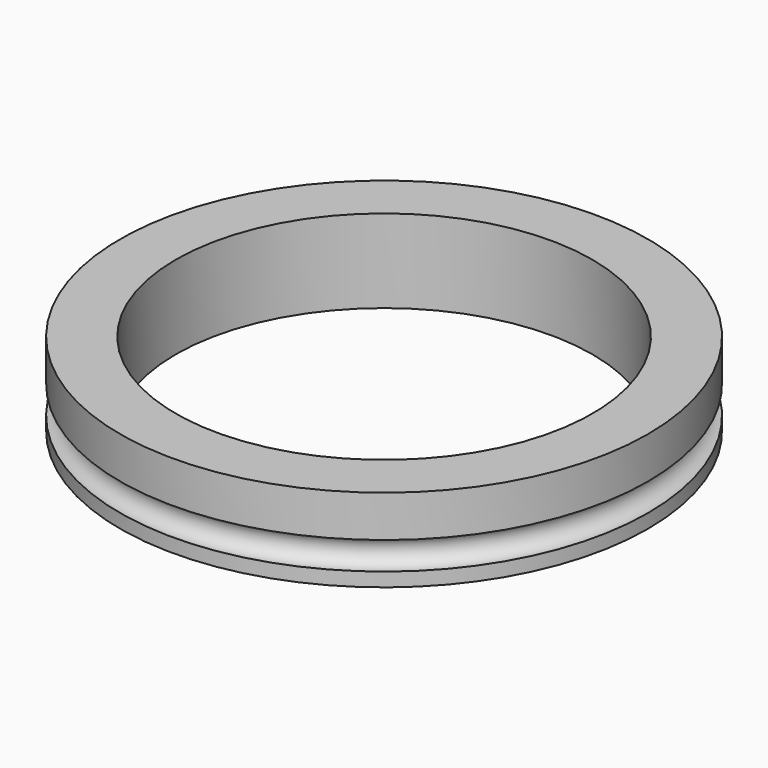
from build123d import *

# Parameters (mm, degrees)
F0_R     = 9.5
F1_DEPTH = 3
F2_R     = 0.5
F7_D     = 15


with BuildPart() as f1:
    # F0 (on Top) → F1 (new body)
    with BuildSketch(Plane.XY):
        Circle(F0_R)
    extrude(amount=F1_DEPTH)

    # F5: sweep along a path in F4
    with BuildLine(Plane.XY.offset(1)) as f5_path:
        CenterArc((0, 0), 9.5, 0, 360)
    # F2 (on Front) → F5 (sweep, cut)
    with BuildSketch(Plane.XZ):
        with Locations((9.5, 1)):
            Circle(F2_R)
    sweep(path=f5_path.line, mode=Mode.SUBTRACT)

    # F7 (through all)
    with Locations(Plane(origin=(0, 0, 0), x_dir=(1, 0, 0), z_dir=(0, 0, -1))):
        with Locations((0, 0)):
            Hole(F7_D / 2)


solid = f1.part
